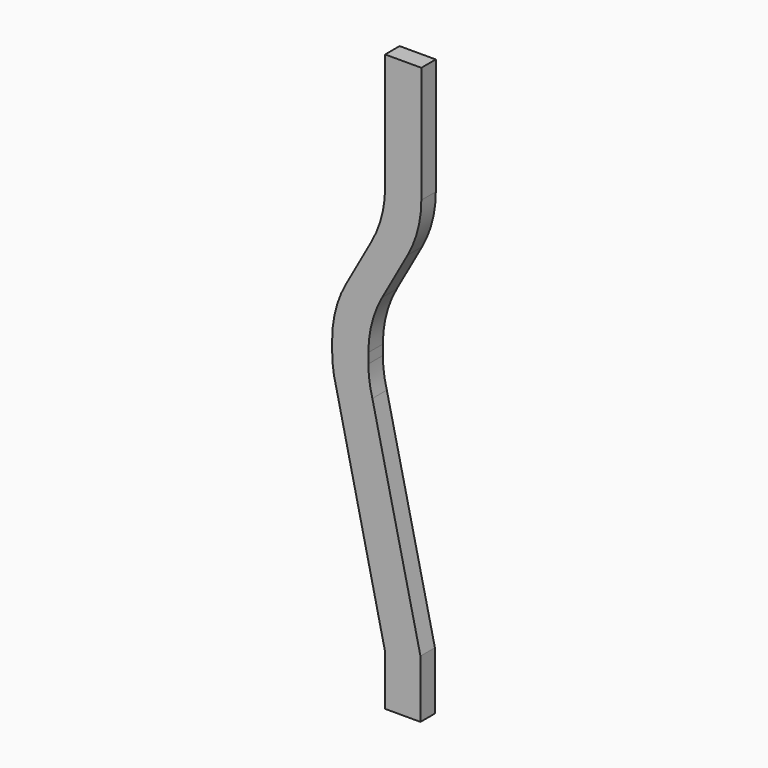
from build123d import *

# Parameters (mm, degrees)
F1_DEPTH = 6.35


with BuildPart() as f1:
    # F0 (on Front) → F1 (new body)
    with BuildSketch(Plane.XZ):
        with BuildLine():
            Line((-18.57243, 202.266671), (-18.57243, 198.118072))
            ThreePointArc((-18.57243, 198.118072), (-18.217615, 192.930487), (-17.159777, 187.839523))
            Line((-17.159777, 187.839523), (0, 111.639523))
            Line((0, 111.639523), (0, 94.068564))
            Line((0, 94.068564), (12.389729, 94.068564))
            Line((12.389729, 94.068564), (12.389729, 114.429615))
            Line((12.389729, 114.429615), (-4.477908, 188.517898))
            ThreePointArc((-4.477908, 188.517898), (-5.52219, 193.577323), (-5.87243, 198.731511))
            Line((-5.87243, 198.731511), (-5.87243, 202.266671))
            ThreePointArc((-5.87243, 202.266671), (-4.644317, 211.862188), (-1.039153, 220.839102))
            Line((-1.039153, 220.839102), (7.866723, 236.791203))
            ThreePointArc((7.866723, 236.791203), (11.471887, 245.768117), (12.7, 255.363633))
            Line((12.7, 255.363633), (12.7, 296.248514))
            Line((12.7, 296.248514), (0, 296.248514))
            Line((0, 296.248514), (0, 255.363633))
            ThreePointArc((0, 255.363633), (-1.228113, 245.768117), (-4.833277, 236.791203))
            Line((-4.833277, 236.791203), (-13.739153, 220.839102))
            ThreePointArc((-13.739153, 220.839102), (-17.344317, 211.862188), (-18.57243, 202.266671))
        make_face()
    extrude(amount=-F1_DEPTH)


solid = f1.part
